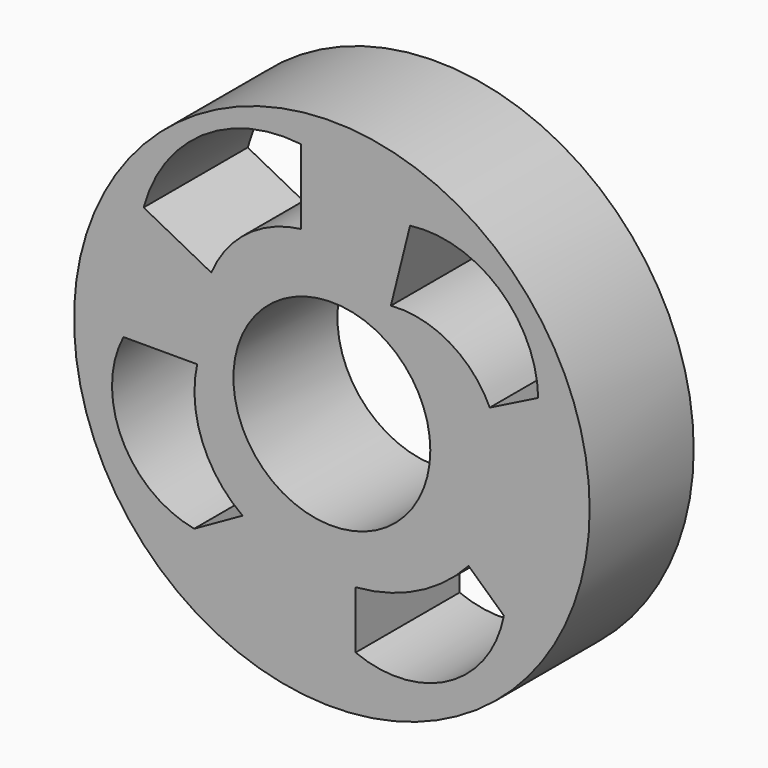
from build123d import *

# Parameters (mm, degrees)
F0_R     = 50.355845
F0_R_2   = 19.23064
F2_DEPTH = 25.4
F3_DEPTH = 159.512
F6_DEPTH = 39.624
F7_DEPTH = 60.452


with BuildPart() as f2:
    # F0 (on Front) → F2 (new body)
    with BuildSketch(Plane.XZ):
        Circle(F0_R)
        Circle(F0_R_2, mode=Mode.SUBTRACT)
    extrude(amount=F2_DEPTH)

    # F1 (on face) → F3 (cut)
    with BuildSketch(Plane.XZ):
        with BuildLine():
            ThreePointArc((-6.010604, 44.439051), (-25.277411, 39.727291), (-36.75336, 23.549741))
            Line((-36.75336, 23.549741), (-23.549741, 16.652327))
            ThreePointArc((-23.549741, 16.652327), (-16.553358, 25.609562), (-6.010604, 29.855948))
            Line((-6.010604, 29.855948), (-6.010604, 44.439051))
        make_face()
    extrude(amount=F3_DEPTH, mode=Mode.SUBTRACT)

    # F4 (on face) → F6 (cut)
    with BuildSketch(Plane.XZ.offset(25.4)):
        with BuildLine():
            ThreePointArc((-17.440604, -23.155604), (-25.338416, -12.904348), (-26.308708, 0))
            Line((-26.308708, 0), (-40.69474, 0))
            ThreePointArc((-40.69474, 0), (-40.96629, -17.711086), (-26.899915, -28.476467))
            Line((-26.899915, -28.476467), (-17.440604, -23.155604))
        make_face()
    extrude(amount=-F6_DEPTH, mode=Mode.SUBTRACT)

    # F5 (on face) → F7 (cut)
    with BuildSketch(Plane.XZ.offset(25.4)):
        with BuildLine():
            Line((15.272845, 37.344571), (11.528536, 22.367328))
            ThreePointArc((11.528536, 22.367328), (22.950874, 19.787073), (30.841293, 11.134396))
            Line((30.841293, 11.134396), (40.300604, 15.864052))
            ThreePointArc((40.300604, 15.864052), (32.595246, 32.2069), (15.272845, 37.344571))
        make_face()
        with BuildLine():
            ThreePointArc((26.702844, -17.440604), (16.707275, -24.978413), (4.631122, -28.279396))
            Line((4.631122, -28.279396), (4.631122, -39.512329))
            ThreePointArc((4.631122, -39.512329), (22.846027, -38.484063), (33.600256, -23.746809))
            Line((33.600256, -23.746809), (26.702844, -17.440604))
        make_face()
    extrude(amount=-F7_DEPTH, mode=Mode.SUBTRACT)


solid = f2.part
